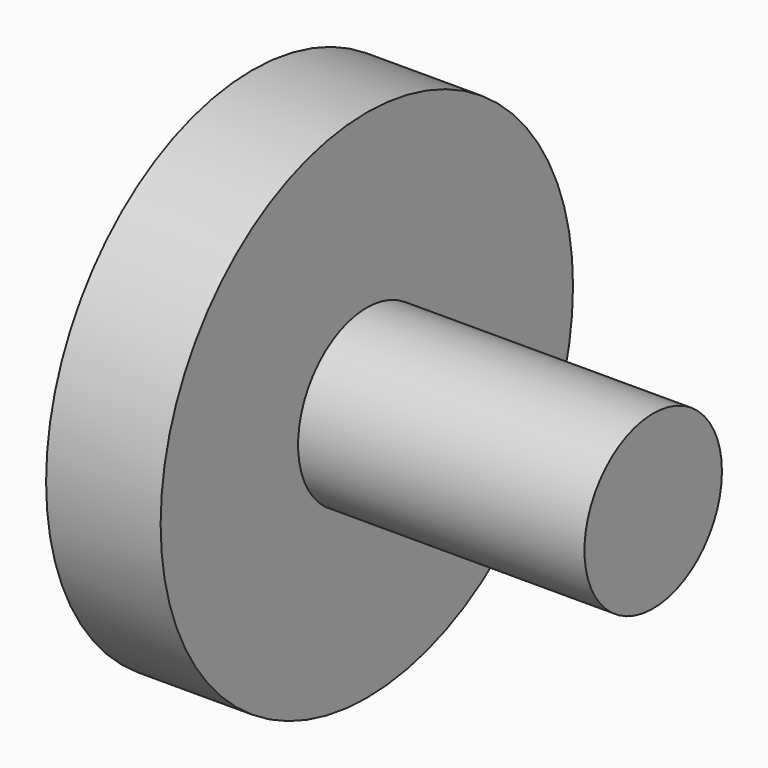
from build123d import *

# Parameters (mm, degrees)
F0_R     = 45
F0_R_2   = 15
F1_DEPTH = 10
F2_DEPTH = 60
F3_DEPTH = 30


with BuildPart() as f1:
    # F0 (on Right) → F1 (new body, symmetric)
    with BuildSketch(Plane.YZ):
        Circle(F0_R)
        Circle(F0_R_2, mode=Mode.SUBTRACT)
        with BuildLine():
            ThreePointArc((38.06, 0), (31.06, -7), (24.06, 0))
            ThreePointArc((24.06, 0), (31.06, 7), (38.06, 0))
        make_face(mode=Mode.SUBTRACT)
        Circle(F0_R_2)
        with BuildLine():
            ThreePointArc((38.06, 0), (31.06, 7), (24.06, 0))
            ThreePointArc((24.06, 0), (31.06, -7), (38.06, 0))
        make_face()
    extrude(amount=F1_DEPTH, both=True)

    # F0 (on Right) → F2 (join)
    with BuildSketch(Plane.YZ):
        Circle(F0_R_2)
    extrude(amount=F2_DEPTH)

    # F0 (on Right) → F3 (join)
    with BuildSketch(Plane.YZ):
        with BuildLine():
            ThreePointArc((38.06, 0), (31.06, 7), (24.06, 0))
            ThreePointArc((24.06, 0), (31.06, -7), (38.06, 0))
        make_face()
    extrude(amount=-F3_DEPTH)


solid = f1.part
